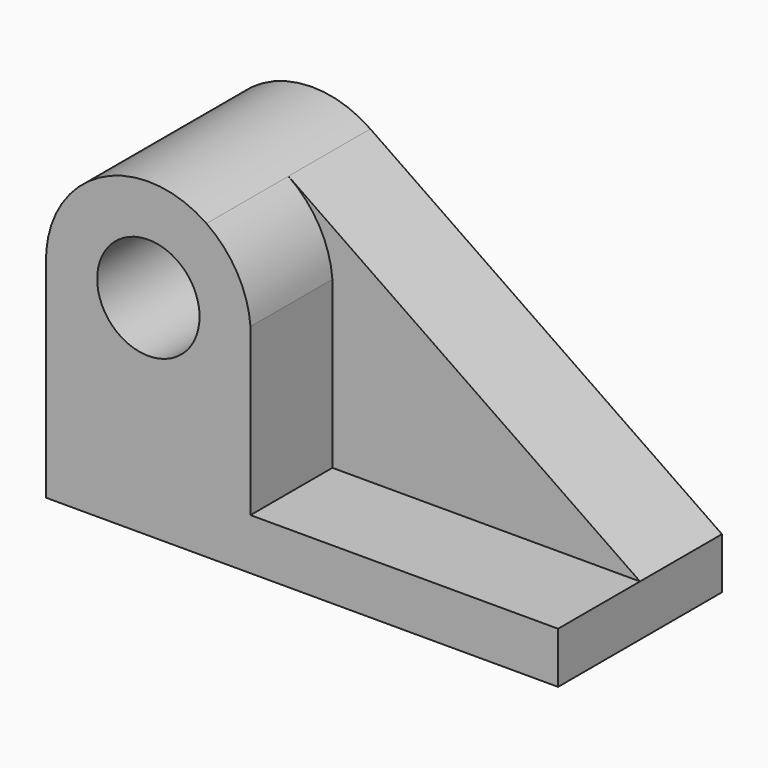
from build123d import *

# Parameters (mm, degrees)
F0_R     = 12.7
F1_DEPTH = 25.4
F2_R     = 12.7
F3_DEPTH = 25.4


with BuildPart() as f1:
    # F0 (on Front) → F1 (new body)
    with BuildSketch(Plane.XZ):
        with BuildLine():
            Line((53.966798, 7.053559), (-33.239698, 67.181492))
            ThreePointArc((-33.239698, 67.181492), (-59.959123, 68.492698), (-73.033202, 45.153559))
            Line((-73.033202, 45.153559), (-73.033202, -5.646441))
            Line((-73.033202, -5.646441), (53.966798, -5.646441))
            Line((53.966798, -5.646441), (53.966798, 7.053559))
        make_face()
        with Locations((-47.657762, 46.270265)):
            Circle(F0_R, mode=Mode.SUBTRACT)
    extrude(amount=F1_DEPTH)

    # F2 (on face) → F3 (join)
    with BuildSketch(Plane.XZ.offset(25.4)):
        with BuildLine():
            Line((-22.333843, 7.053559), (-22.333843, 44.305795))
            Line((-22.333843, 44.305795), (-22.333843, 48.234734))
            ThreePointArc((-22.333843, 48.234734), (-25.644102, 58.941444), (-33.239698, 67.181492))
            ThreePointArc((-33.239698, 67.181492), (-59.959123, 68.492698), (-73.033202, 45.153559))
            Line((-73.033202, 45.153559), (-73.033202, 7.053559))
            Line((-73.033202, 7.053559), (-73.033202, -5.646441))
            Line((-73.033202, -5.646441), (53.966798, -5.646441))
            Line((53.966798, -5.646441), (53.966798, 7.053559))
            Line((53.966798, 7.053559), (-22.333843, 7.053559))
        make_face()
        with Locations((-47.657762, 46.270265)):
            Circle(F2_R, mode=Mode.SUBTRACT)
    extrude(amount=F3_DEPTH)


solid = f1.part
